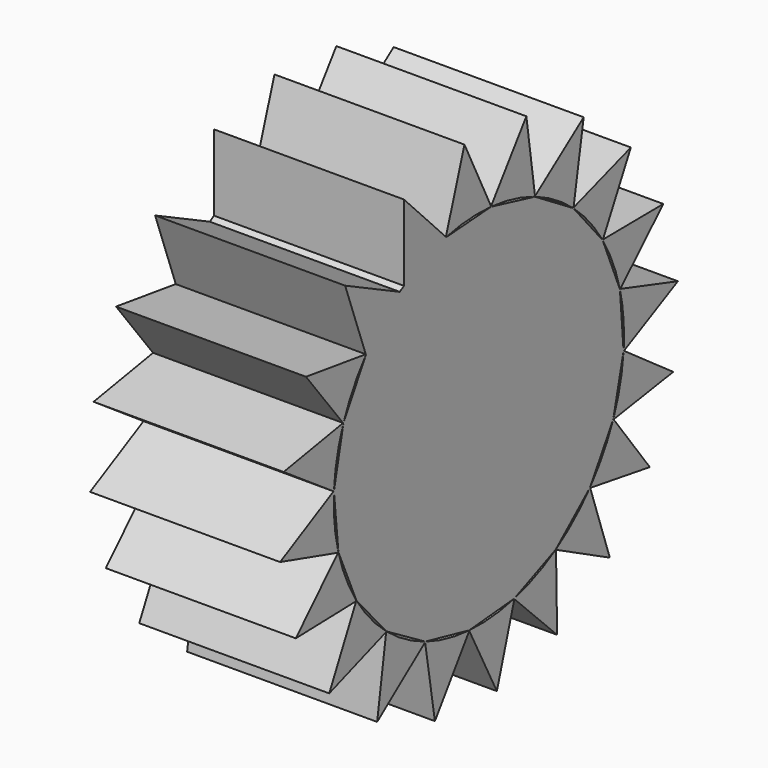
from build123d import *

# Parameters (mm, degrees)
F1_DEPTH = 12.7


with BuildPart() as f1:
    # F0 (on Right) → F1 (new body, symmetric)
    with BuildSketch(Plane.YZ):
        with BuildLine():
            ThreePointArc((23.5854054871, 5.6683945708), (24.0885162463, 2.8540206814), (24.257, 0))
            ThreePointArc((24.257, 0), (24.2406926461, -0.8893081786), (24.1917925105, -1.7774206395))
            Line((24.1917925105, -1.7774206395), (24.2518372175, -1.8198767227))
            Line((24.2518372175, -1.8198767227), (33.2643587406, 2.7090486284))
            Line((33.2643587406, 2.7090486284), (23.6377892706, 5.7200068277))
            Line((23.6377892706, 5.7200068277), (23.5854054871, 5.6683945708))
        make_face()
        with BuildLine():
            ThreePointArc((23.5676039215, 5.7419591081), (23.5765333967, 5.7051837826), (23.5854054871, 5.6683945708))
            Line((23.5854054871, 5.6683945708), (23.6377892706, 5.7200068277))
            Line((23.6377892706, 5.7200068277), (23.5676039215, 5.7419591081))
        make_face()
        with BuildLine():
            Line((24.2518372175, -1.8198767227), (24.1917925105, -1.7774206395))
            ThreePointArc((24.1917925105, -1.7774206395), (24.1889900762, -1.8151606243), (24.1861287664, -1.8528961911))
            Line((24.1861287664, -1.8528961911), (24.2518372175, -1.8198767227))
        make_face()
        with BuildLine():
            ThreePointArc((20.7026825957, 12.6412413291), (22.402334496, 9.3025511624), (23.5676039215, 5.7419591081))
            Line((23.5676039215, 5.7419591081), (23.6377892706, 5.7200068277))
            Line((23.6377892706, 5.7200068277), (30.8227094509, 12.7991050077))
            Line((30.8227094509, 12.7991050077), (20.7366733326, 12.7064526444))
            Line((20.7366733326, 12.7064526444), (20.7026825957, 12.6412413291))
        make_face()
        with BuildLine():
            Line((24.1830190921, -1.814712557), (23.5707135958, 5.7037754741))
            Line((23.5707135958, 5.7037754741), (20.6778299975, 12.6703962317))
            Line((20.6778299975, 12.6703962317), (15.7842684775, 18.4110961842))
            Line((15.7842684775, 18.4110961842), (9.3635042744, 22.37043544))
            Line((9.3635042744, 22.37043544), (2.0367767147, 24.1653291864))
            Line((2.0367767147, 24.1653291864), (-5.4870186323, 23.622112958))
            Line((-5.4870186323, 23.622112958), (-12.5154333238, 20.778979227))
            ThreePointArc((-12.5154333238, 20.778979227), (-12.8629795573, 20.5656462556), (-13.2068903428, 20.346500841))
            Line((-13.2068903428, 20.346500841), (-18.839030758, 15.270969654))
            Line((-18.839030758, 15.270969654), (-22.6199467454, 8.7435463805))
            Line((-22.6199467454, 8.7435463805), (-24.2122758236, 1.370143611))
            Line((-24.2122758236, 1.370143611), (-23.4619526177, -6.1358270378))
            Line((-23.4619526177, -6.1358270378), (-20.4415744492, -13.0481273795))
            Line((-20.4415744492, -13.0481273795), (-15.4433772015, -18.6979596396))
            Line((-15.4433772015, -18.6979596396), (-8.9509601151, -22.5386758061))
            Line((-8.9509601151, -22.5386758061), (-1.5924952722, -24.1986684113))
            Line((-1.5924952722, -24.1986684113), (5.9200510257, -23.517325314))
            Line((5.9200510257, -23.517325314), (12.859804367, -20.5605696837))
            Line((12.859804367, -20.5605696837), (18.5553107694, -15.614481622))
            Line((18.5553107694, -15.614481622), (22.4555030315, -9.1576185591))
            Line((22.4555030315, -9.1576185591), (24.1830190921, -1.814712557))
        make_face()
        with BuildLine():
            Line((24.2518372175, -1.8198767227), (24.1861287664, -1.8528961911))
            ThreePointArc((24.1861287664, -1.8528961911), (23.6123426483, -5.5551168898), (22.4753106729, -9.1248265276))
            Line((22.4753106729, -9.1248265276), (22.5194051282, -9.1836785866))
            Line((22.5194051282, -9.1836785866), (32.4875238799, -7.6431210279))
            Line((32.4875238799, -7.6431210279), (24.2518372175, -1.8198767227))
        make_face()
        with BuildLine():
            ThreePointArc((20.6631381062, 12.705777135), (20.6829355219, 12.6735246556), (20.7026825957, 12.6412413291))
            Line((20.7026825957, 12.6412413291), (20.7366733326, 12.7064526444))
            Line((20.7366733326, 12.7064526444), (20.6631381062, 12.705777135))
        make_face()
        with BuildLine():
            Line((22.5194051282, -9.1836785866), (22.4753106729, -9.1248265276))
            ThreePointArc((22.4753106729, -9.1248265276), (22.4610474779, -9.1598796496), (22.4467296132, -9.1949104766))
            Line((22.4467296132, -9.1949104766), (22.5194051282, -9.1836785866))
        make_face()
        with BuildLine():
            ThreePointArc((15.8168771762, 18.3909881571), (18.460181062, 15.7360657141), (20.6631381062, 12.705777135))
            Line((20.6631381062, 12.705777135), (20.7366733326, 12.7064526444))
            Line((20.7366733326, 12.7064526444), (25.3988171361, 21.6507873986))
            Line((25.3988171361, 21.6507873986), (15.8291861018, 18.4634890273))
            Line((15.8291861018, 18.4634890273), (15.8168771762, 18.3909881571))
        make_face()
        with BuildLine():
            Line((22.5194051282, -9.1836785866), (22.4467296132, -9.1949104766))
            ThreePointArc((22.4467296132, -9.1949104766), (20.7631233508, -12.5417206841), (18.5842361506, -15.5893622608))
            Line((18.5842361506, -15.5893622608), (18.608114007, -15.6589160803))
            Line((18.608114007, -15.6589160803), (28.5673673184, -17.2557825493))
            Line((28.5673673184, -17.2557825493), (22.5194051282, -9.1836785866))
        make_face()
        with BuildLine():
            ThreePointArc((15.7594158792, 18.4402510868), (15.7881657418, 18.4156420336), (15.8168771762, 18.3909881571))
            Line((15.8168771762, 18.3909881571), (15.8291861018, 18.4634890273))
            Line((15.8291861018, 18.4634890273), (15.7594158792, 18.4402510868))
        make_face()
        with BuildLine():
            ThreePointArc((9.4007140276, 22.3613198352), (12.7319177371, 20.6470414282), (15.7594158792, 18.4402510868))
            Line((15.7594158792, 18.4402510868), (15.8291861018, 18.4634890273))
            Line((15.8291861018, 18.4634890273), (17.5174690492, 28.4076536343))
            Line((17.5174690492, 28.4076536343), (9.3901501952, 22.4340954581))
            Line((9.3901501952, 22.4340954581), (9.4007140276, 22.3613198352))
        make_face()
        with BuildLine():
            Line((18.608114007, -15.6589160803), (18.5842361506, -15.5893622608))
            ThreePointArc((18.5842361506, -15.5893622608), (18.5598922266, -15.6183369645), (18.5355031281, -15.6472736535))
            Line((18.5355031281, -15.6472736535), (18.608114007, -15.6589160803))
        make_face()
        with BuildLine():
            Line((18.608114007, -15.6589160803), (18.5355031281, -15.6472736535))
            ThreePointArc((18.5355031281, -15.6472736535), (15.9049735961, -18.3148536415), (12.8950488205, -20.5455534099))
            Line((12.8950488205, -20.5455534099), (12.8963997824, -20.6190793287))
            Line((12.8963997824, -20.6190793287), (21.8831827577, -25.1988654365))
            Line((21.8831827577, -25.1988654365), (18.608114007, -15.6589160803))
        make_face()
        with BuildLine():
            ThreePointArc((9.3308955757, 22.3905434672), (9.3658161997, 22.3759588825), (9.4007140276, 22.3613198352))
            Line((9.4007140276, 22.3613198352), (9.3901501952, 22.4340954581))
            Line((9.3901501952, 22.4340954581), (9.3308955757, 22.3905434672))
        make_face()
        with BuildLine():
            ThreePointArc((2.0749873027, 24.1680879818), (5.7717811102, 23.5603181603), (9.3308955757, 22.3905434672))
            Line((9.3308955757, 22.3905434672), (9.3901501952, 22.4340954581))
            Line((9.3901501952, 22.4340954581), (7.9412229206, 32.4159449256))
            Line((7.9412229206, 32.4159449256), (2.042572813, 24.2340969713))
            Line((2.042572813, 24.2340969713), (2.0749873027, 24.1680879818))
        make_face()
        with BuildLine():
            Line((12.8963997824, -20.6190793287), (12.8950488205, -20.5455534099))
            ThreePointArc((12.8950488205, -20.5455534099), (12.8629795573, -20.5656462556), (12.8308789858, -20.5856890449))
            Line((12.8308789858, -20.5856890449), (12.8963997824, -20.6190793287))
        make_face()
        with BuildLine():
            Line((12.8963997824, -20.6190793287), (12.8308789858, -20.5856890449))
            ThreePointArc((12.8308789858, -20.5856890449), (9.5079423667, -22.3159378237), (5.9582044839, -23.5138650232))
            Line((5.9582044839, -23.5138650232), (5.9368978393, -23.5842490607))
            Line((5.9368978393, -23.5842490607), (13.0816966908, -30.7038388248))
            Line((13.0816966908, -30.7038388248), (12.8963997824, -20.6190793287))
        make_face()
        with BuildLine():
            ThreePointArc((1.9995669615, 24.1744447913), (2.0372796114, 24.1712958028), (2.0749873027, 24.1680879818))
            Line((2.0749873027, 24.1680879818), (2.042572813, 24.2340969713))
            Line((2.042572813, 24.2340969713), (1.9995669615, 24.1744447913))
        make_face()
        with BuildLine():
            Line((-12.5154333238, 20.778979227), (-5.4870186323, 23.622112958))
            Line((-5.4870186323, 23.622112958), (-5.5252292203, 23.6193541627))
            ThreePointArc((-5.5252292203, 23.6193541627), (-9.1314461451, 22.4726220166), (-12.5154333238, 20.778979227))
        make_face()
        with BuildLine():
            ThreePointArc((-5.4515042648, 23.636479227), (-1.7468026573, 24.1940225981), (1.9995669615, 24.1744447913))
            Line((1.9995669615, 24.1744447913), (2.042572813, 24.2340969713))
            Line((2.042572813, 24.2340969713), (-2.4033741119, 33.2878401188))
            Line((-2.4033741119, 33.2878401188), (-5.5026331565, 23.689334901))
            Line((-5.5026331565, 23.689334901), (-5.4515042648, 23.636479227))
        make_face()
        with BuildLine():
            Line((5.9368978393, -23.5842490607), (5.9582044839, -23.5138650232))
            ThreePointArc((5.9582044839, -23.5138650232), (5.9215127345, -23.523131933), (5.8848065722, -23.5323415879))
            Line((5.8848065722, -23.5323415879), (5.9368978393, -23.5842490607))
        make_face()
        with BuildLine():
            Line((5.9368978393, -23.5842490607), (5.8848065722, -23.5323415879))
            ThreePointArc((5.8848065722, -23.5323415879), (2.1909727116, -24.1578493988), (-1.555124337, -24.2070989029))
            Line((-1.555124337, -24.2070989029), (-1.5970270694, -24.2675310703))
            Line((-1.5970270694, -24.2675310703), (3.0144945526, -33.2380704838))
            Line((3.0144945526, -33.2380704838), (5.9368978393, -23.5842490607))
        make_face()
        with BuildLine():
            ThreePointArc((-5.5252292203, 23.6193541627), (-5.4883734219, 23.6279454499), (-5.4515042648, 23.636479227))
            Line((-5.4515042648, 23.636479227), (-5.5026331565, 23.689334901))
            Line((-5.5026331565, 23.689334901), (-5.5252292203, 23.6193541627))
        make_face()
        with BuildLine():
            Line((-12.5154333238, 30.938979227), (-12.5154333238, 20.778979227))
            ThreePointArc((-12.5154333238, 20.778979227), (-9.1314461451, 22.4726220166), (-5.5252292203, 23.6193541627))
            Line((-5.5252292203, 23.6193541627), (-5.5026331565, 23.689334901))
            Line((-5.5026331565, 23.689334901), (-12.5154333238, 30.938979227))
        make_face()
        with BuildLine():
            Line((-1.5970270694, -24.2675310703), (-1.555124337, -24.2070989029))
            ThreePointArc((-1.555124337, -24.2070989029), (-1.5928884722, -24.2046432594), (-1.6306487304, -24.2021287022))
            Line((-1.6306487304, -24.2021287022), (-1.5970270694, -24.2675310703))
        make_face()
        with BuildLine():
            Line((-1.5970270694, -24.2675310703), (-1.6306487304, -24.2021287022))
            ThreePointArc((-1.6306487304, -24.2021287022), (-5.3379839233, -23.662374704), (-8.9179875178, -22.5581813902))
            Line((-8.9179875178, -22.5581813902), (-8.9764320503, -22.6028145892))
            Line((-8.9764320503, -22.6028145892), (-7.3443742013, -32.5563615056))
            Line((-7.3443742013, -32.5563615056), (-1.5970270694, -24.2675310703))
        make_face()
        with BuildLine():
            Line((-18.839030758, 15.270969654), (-13.2068903428, 20.346500841))
            ThreePointArc((-13.2068903428, 20.346500841), (-16.2106164918, 18.0448874188), (-18.819828877, 15.3041200348))
            Line((-18.819828877, 15.3041200348), (-18.839030758, 15.270969654))
        make_face()
        with BuildLine():
            ThreePointArc((-18.819828877, 15.3041200348), (-16.2106164918, 18.0448874188), (-13.2068903428, 20.346500841))
            Line((-13.2068903428, 20.346500841), (-22.3424144499, 24.7926001751))
            Line((-22.3424144499, 24.7926001751), (-18.8926413835, 15.3144265731))
            Line((-18.8926413835, 15.3144265731), (-18.819828877, 15.3041200348))
        make_face()
        with BuildLine():
            Line((-8.9764320503, -22.6028145892), (-8.9179875178, -22.5581813902))
            ThreePointArc((-8.9179875178, -22.5581813902), (-8.95317018, -22.5442407885), (-8.9883310503, -22.5302453145))
            Line((-8.9883310503, -22.5302453145), (-8.9764320503, -22.6028145892))
        make_face()
        with BuildLine():
            Line((-8.9764320503, -22.6028145892), (-8.9883310503, -22.5302453145))
            ThreePointArc((-8.9883310503, -22.5302453145), (-12.3504653486, -20.8774532612), (-15.4179931969, -18.7266530587))
            Line((-15.4179931969, -18.7266530587), (-15.4873247444, -18.7511688161))
            Line((-15.4873247444, -18.7511688161), (-16.9926399899, -28.7246704605))
            Line((-16.9926399899, -28.7246704605), (-8.9764320503, -22.6028145892))
        make_face()
        with BuildLine():
            ThreePointArc((-18.8674897937, 15.2453231479), (-18.8436822679, 15.2747401806), (-18.819828877, 15.3041200348))
            Line((-18.819828877, 15.3041200348), (-18.8926413835, 15.3144265731))
            Line((-18.8926413835, 15.3144265731), (-18.8674897937, 15.2453231479))
        make_face()
        with BuildLine():
            Line((-15.4873247444, -18.7511688161), (-15.4179931969, -18.7266530587))
            ThreePointArc((-15.4179931969, -18.7266530587), (-15.447190297, -18.702576318), (-15.4763497988, -18.6784540555))
            Line((-15.4763497988, -18.6784540555), (-15.4873247444, -18.7511688161))
        make_face()
        with BuildLine():
            Line((-15.4873247444, -18.7511688161), (-15.4763497988, -18.6784540555))
            ThreePointArc((-15.4763497988, -18.6784540555), (-18.167980796, -16.072539401), (-20.4262350599, -13.0832324093))
            Line((-20.4262350599, -13.0832324093), (-20.499745467, -13.0852587096))
            Line((-20.499745467, -13.0852587096), (-24.9967874323, -22.1137315928))
            Line((-24.9967874323, -22.1137315928), (-15.4873247444, -18.7511688161))
        make_face()
        with BuildLine():
            ThreePointArc((-22.611859892, 8.7809931799), (-20.9900215119, 12.158167869), (-18.8674897937, 15.2453231479))
            Line((-18.8674897937, 15.2453231479), (-18.8926413835, 15.3144265731))
            Line((-18.8926413835, 15.3144265731), (-28.8795497873, 16.7280635752))
            Line((-28.8795497873, 16.7280635752), (-22.684316803, 8.7684280741))
            Line((-22.684316803, 8.7684280741), (-22.611859892, 8.7809931799))
        make_face()
        with BuildLine():
            Line((-20.499745467, -13.0852587096), (-20.4262350599, -13.0832324093))
            ThreePointArc((-20.4262350599, -13.0832324093), (-20.4466216402, -13.0513490683), (-20.4669584538, -13.0194339605))
            Line((-20.4669584538, -13.0194339605), (-20.499745467, -13.0852587096))
        make_face()
        with BuildLine():
            Line((-20.499745467, -13.0852587096), (-20.4669584538, -13.0194339605))
            ThreePointArc((-20.4669584538, -13.0194339605), (-22.2276581111, -9.7125312815), (-23.4581420023, -6.1739471007))
            Line((-23.4581420023, -6.1739471007), (-23.5287187891, -6.1532878897))
            Line((-23.5287187891, -6.1532878897), (-30.5823773793, -13.3631845278))
            Line((-30.5823773793, -13.3631845278), (-20.499745467, -13.0852587096))
        make_face()
        with BuildLine():
            ThreePointArc((-22.6391486264, 8.7103959997), (-22.6255317943, 8.7457052333), (-22.611859892, 8.7809931799))
            Line((-22.611859892, 8.7809931799), (-22.684316803, 8.7684280741))
            Line((-22.684316803, 8.7684280741), (-22.6391486264, 8.7103959997))
        make_face()
        with BuildLine():
            ThreePointArc((-24.2160864391, 1.4082636739), (-23.7104101058, 5.1204005326), (-22.6391486264, 8.7103959997))
            Line((-22.6391486264, 8.7103959997), (-22.684316803, 8.7684280741))
            Line((-22.684316803, 8.7684280741), (-32.6224519942, 7.0450076493))
            Line((-32.6224519942, 7.0450076493), (-24.2811772055, 1.3740426575))
            Line((-24.2811772055, 1.3740426575), (-24.2160864391, 1.4082636739))
        make_face()
        with BuildLine():
            Line((-23.5287187891, -6.1532878897), (-23.4581420023, -6.1739471007))
            ThreePointArc((-23.4581420023, -6.1739471007), (-23.4677455647, -6.1373420234), (-23.477292007, -6.1007220079))
            Line((-23.477292007, -6.1007220079), (-23.5287187891, -6.1532878897))
        make_face()
        with BuildLine():
            Line((-23.5287187891, -6.1532878897), (-23.477292007, -6.1007220079))
            ThreePointArc((-23.477292007, -6.1007220079), (-24.1367042992, -2.4127897905), (-24.2203626771, 1.3326968116))
            Line((-24.2203626771, 1.3326968116), (-24.2811772055, 1.3740426575))
            Line((-24.2811772055, 1.3740426575), (-33.2089775666, -3.319686111))
            Line((-33.2089775666, -3.319686111), (-23.5287187891, -6.1532878897))
        make_face()
        with BuildLine():
            ThreePointArc((-24.2203626771, 1.3326968116), (-24.2182540315, 1.3704819106), (-24.2160864391, 1.4082636739))
            Line((-24.2160864391, 1.4082636739), (-24.2811772055, 1.3740426575))
            Line((-24.2811772055, 1.3740426575), (-24.2203626771, 1.3326968116))
        make_face()
    extrude(amount=F1_DEPTH, both=True)


solid = f1.part
